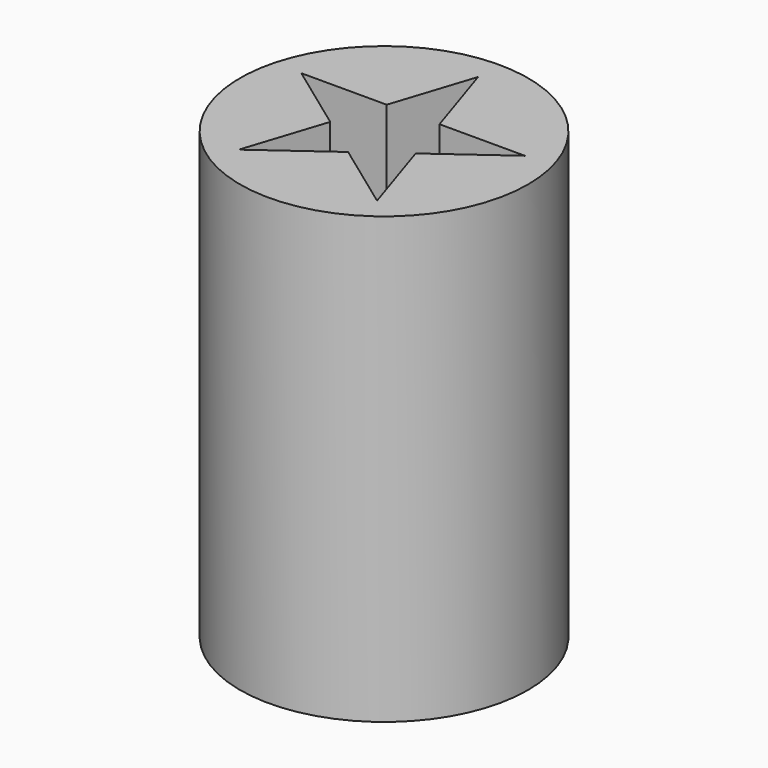
from build123d import *

# Parameters (mm, degrees)
F0_R     = 8.575
F1_DEPTH = 26.5
F3_DEPTH = 26.5


with BuildPart() as f1:
    # F0 (on Top) → F1 (new body)
    with BuildSketch(Plane.XY):
        Circle(F0_R)
    extrude(amount=F1_DEPTH)

    # F2 (on face) → F3 (cut)
    with BuildSketch(Plane(origin=(0, 0, 0), x_dir=(1, 0, 0), z_dir=(0, 0, -1))):
        Polygon((0, 2.6737620788), (-4.114496766, 5.6631189606), (-2.542898848, 0.8262379212), align=None)
        Polygon((-1.571597918, -2.1631189606), (-2.542898848, 0.8262379212), (-6.6573956141, -2.1631189606), align=None)
        Polygon((1.571597918, -2.1631189606), (-1.571597918, -2.1631189606), (0, -7), align=None)
        Polygon((6.6573956141, -2.1631189606), (2.542898848, 0.8262379212), (1.571597918, -2.1631189606), align=None)
        Polygon((4.114496766, 5.6631189606), (0, 2.6737620788), (2.542898848, 0.8262379212), align=None)
        Polygon((0, 2.6737620788), (-2.542898848, 0.8262379212), (-1.571597918, -2.1631189606), (1.571597918, -2.1631189606), (2.542898848, 0.8262379212), align=None)
    extrude(amount=-F3_DEPTH, mode=Mode.SUBTRACT)


solid = f1.part
